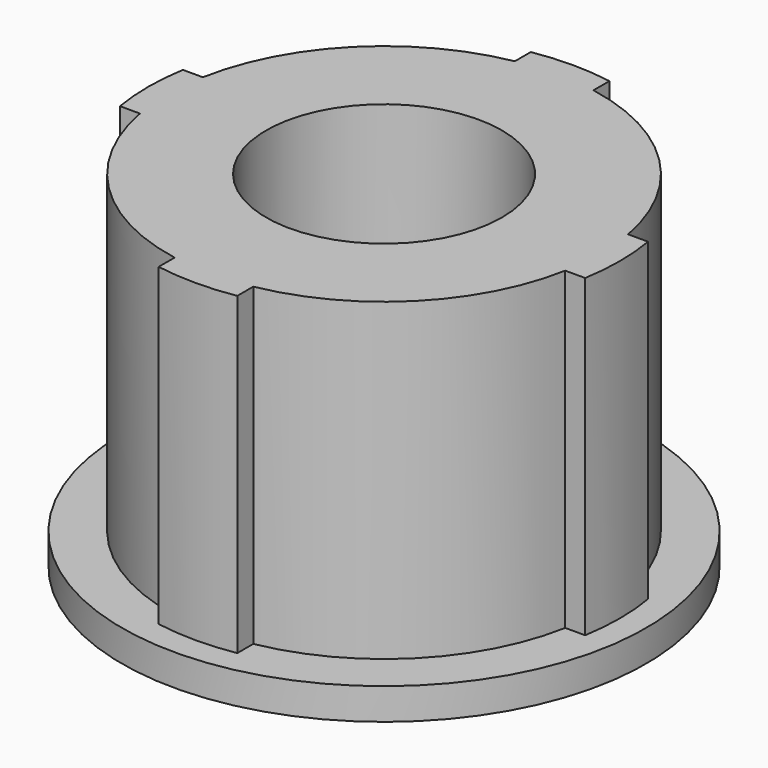
from build123d import *

# Parameters (mm, degrees)
F0_R     = 4.5
F1_DEPTH = 12


with BuildPart() as f1:
    # F0 (on Top) → F1 (new body)
    with BuildSketch(Plane.XY):
        with BuildLine():
            ThreePointArc((-8.11249, -1.5), (-8.25, 0), (-8.11249, 1.5))
            Line((-8.11249, 1.5), (-8.87412, 1.5))
            ThreePointArc((-8.87412, 1.5), (-9, 0), (-8.87412, -1.5))
            Line((-8.87412, -1.5), (-8.11249, -1.5))
        make_face()
        with BuildLine():
            ThreePointArc((8.11249, -1.5), (8.215551, -0.753145), (8.25, 0))
            ThreePointArc((8.25, 0), (8.215551, 0.753145), (8.11249, 1.5))
            ThreePointArc((8.11249, 1.5), (5.833631, 5.833631), (1.5, 8.11249))
            ThreePointArc((1.5, 8.11249), (0, 8.25), (-1.5, 8.11249))
            ThreePointArc((-1.5, 8.11249), (-5.833631, 5.833631), (-8.11249, 1.5))
            ThreePointArc((-8.11249, 1.5), (-8.25, 0), (-8.11249, -1.5))
            ThreePointArc((-8.11249, -1.5), (-5.833631, -5.833631), (-1.5, -8.11249))
            ThreePointArc((-1.5, -8.11249), (0, -8.25), (1.5, -8.11249))
            ThreePointArc((1.5, -8.11249), (5.833631, -5.833631), (8.11249, -1.5))
        make_face()
        Circle(F0_R, mode=Mode.SUBTRACT)
        with BuildLine():
            ThreePointArc((-1.5, 8.11249), (0, 8.25), (1.5, 8.11249))
            Line((1.5, 8.11249), (1.5, 8.87412))
            ThreePointArc((1.5, 8.87412), (0, 9), (-1.5, 8.87412))
            Line((-1.5, 8.87412), (-1.5, 8.11249))
        make_face()
        with BuildLine():
            ThreePointArc((8.11249, 1.5), (8.215551, 0.753145), (8.25, 0))
            ThreePointArc((8.25, 0), (8.215551, -0.753145), (8.11249, -1.5))
            Line((8.11249, -1.5), (8.87412, -1.5))
            ThreePointArc((8.87412, -1.5), (9, 0), (8.87412, 1.5))
            Line((8.87412, 1.5), (8.11249, 1.5))
        make_face()
        with BuildLine():
            Line((1.5, -8.87412), (1.5, -8.11249))
            ThreePointArc((1.5, -8.11249), (0, -8.25), (-1.5, -8.11249))
            Line((-1.5, -8.11249), (-1.5, -8.87412))
            ThreePointArc((-1.5, -8.87412), (0, -9), (1.5, -8.87412))
        make_face()
    extrude(amount=F1_DEPTH)

    # F2 (on Front) → F3 (revolve)
    with BuildSketch(Plane.XZ):
        with BuildLine():
            Line((0, -3.498671), (0, 0))
            Line((0, 0), (-10, 0))
            Line((-10, 0), (-10, -1.2))
            ThreePointArc((-10, -1.2), (-5.124276, -2.889978), (0, -3.498671))
        make_face()
    revolve(axis=Axis((0, 0, 0), (0, 0, -1)))


solid = f1.part
